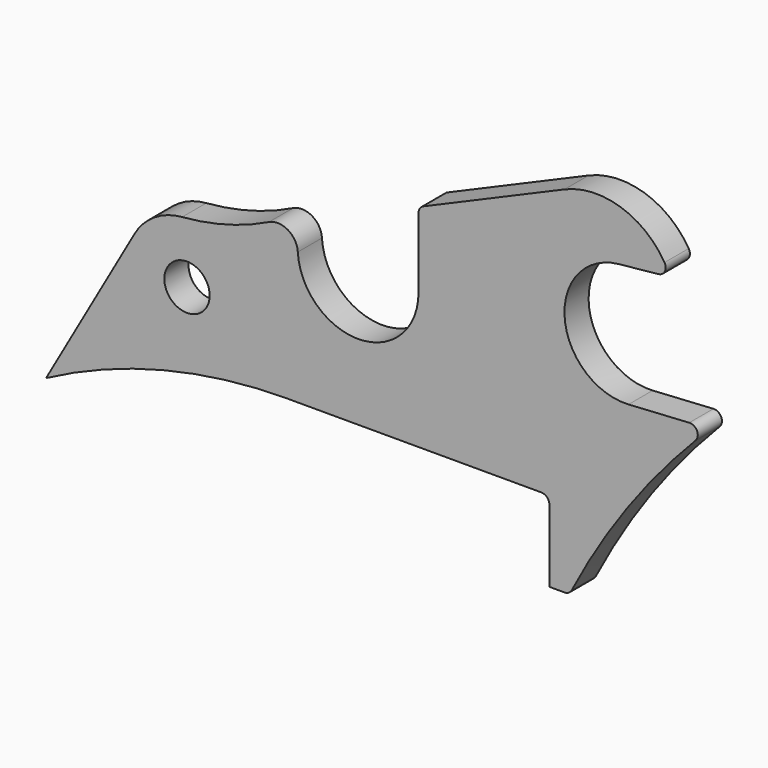
from build123d import *

# Parameters (mm, degrees)
F0_R     = 14.2875
F1_DEPTH = 9.525
F2_R     = 5.08


with BuildPart() as f1:
    # F0 (on Front) → F1 (new body, symmetric)
    with BuildSketch(Plane.XZ):
        with BuildLine():
            ThreePointArc((38.1, 0), (1.078203, -38.084741), (-38.038975, -2.155542))
            ThreePointArc((-38.038975, -2.155542), (-44.302451, 8.08599), (-56.299083, 8.534212))
            ThreePointArc((-56.299083, 8.534212), (-82.951468, -1.538068), (-111.012896, -6.473314))
            ThreePointArc((-111.012896, -6.473314), (-128.425425, -12.319532), (-141.079179, -25.633319))
            Line((-141.079179, -25.633319), (-196.85, -123.825))
            ThreePointArc((-196.85, -123.825), (-122.995162, -95.394351), (-44.45, -85.725))
            Line((-44.45, -85.725), (120.65, -85.725))
            Line((120.65, -85.725), (120.65, -136.525))
            Line((120.65, -136.525), (133.35, -136.525))
            ThreePointArc((133.35, -136.525), (172.822526, -72.530002), (222.25, -15.86992))
            Line((222.25, -15.86992), (170.5643, -18.98116))
            ThreePointArc((170.5643, -18.98116), (130.302523, 15.935365), (164.336498, 56.945886))
            Line((164.336498, 56.945886), (196.85, 60.325))
            ThreePointArc((196.85, 60.325), (169.150685, 87.748385), (130.175, 87.3125))
            Line((130.175, 87.3125), (38.1, 47.625))
            Line((38.1, 47.625), (38.1, 0))
        make_face()
        with Locations((-107.95, -44.45)):
            Circle(F0_R, mode=Mode.SUBTRACT)
    extrude(amount=F1_DEPTH, both=True)

    # F2
    f2_edges = [f1.edges().sort_by_distance(p)[0] for p in [
        (38.1, 0, 47.625),
        (196.85, 0, 60.325),
        (222.25, 0, -15.86992),
        (133.35, 0, -136.525),
        (120.65, 0, -85.725),
    ]]
    fillet(f2_edges, radius=F2_R)


solid = f1.part
